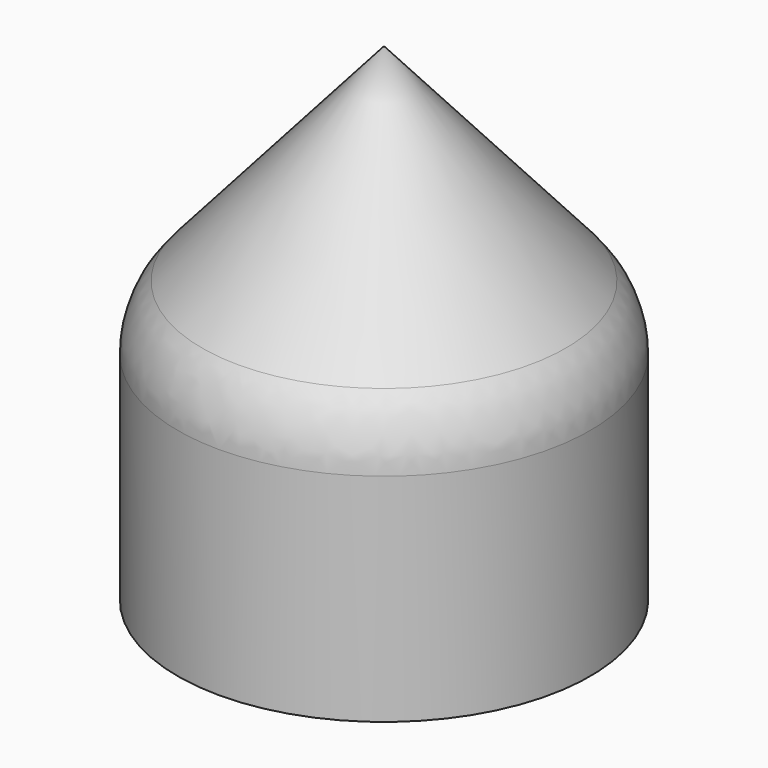
from build123d import *

# Parameters (mm, degrees)
F2_R = 5


with BuildPart() as f1:
    # F0 (on Right) → F1 (revolve)
    with BuildSketch(Plane.YZ):
        Polygon((-5.0837392919, 0), (-5.0837392919, -12.9491472617), (5.4674181156, -12.9491472617), (5.4674181156, 11.9899511337), align=None)
    revolve(axis=Axis((0, 5.4674181156, -0.479598064), (0, 0, 1)))

    # F2
    f2_edges = [f1.edges().sort_by_distance(p)[0] for p in [
        (0, 16.018576, 0),
    ]]
    fillet(f2_edges, radius=F2_R)


solid = f1.part
